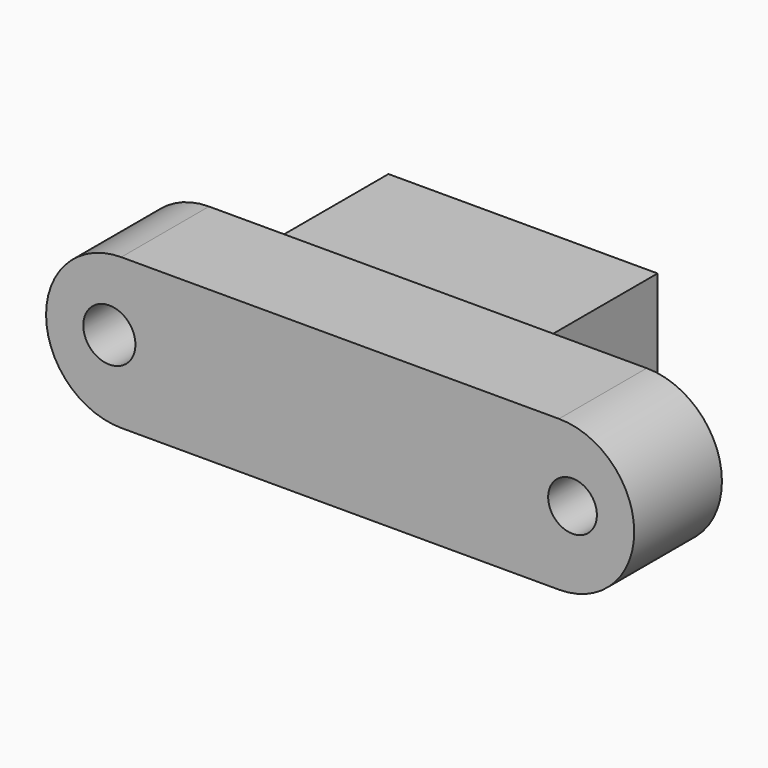
from build123d import *

# Parameters (mm, degrees)
F0_W     = 101.395164
F0_H     = 34.843063
F1_DEPTH = 25.4
F2_R     = 6.038851
F2_R_2   = 5.643182
F3_DEPTH = 46.99
F4_W     = 62.337181
F4_H     = 34.332353
F5_DEPTH = 30.48


with BuildPart() as f1:
    # F0 (on Front) → F1 (new body)
    with BuildSketch(Plane.XZ):
        with BuildLine():
            Line((-50.236695, -23.689596), (-50.236695, 11.153467))
            ThreePointArc((-50.236695, 11.153467), (-67.658226, -6.268064), (-50.236695, -23.689596))
        make_face()
        with Locations((0.460887, -6.268064)):
            Rectangle(F0_W, F0_H)
        with BuildLine():
            ThreePointArc((51.158469, -23.689596), (68.580001, -6.268064), (51.158469, 11.153467))
            Line((51.158469, 11.153467), (51.158469, -23.689596))
        make_face()
    extrude(amount=F1_DEPTH)

    # F2 (on Front) → F3 (cut)
    with BuildSketch(Plane.XZ):
        with Locations((-53.002015, -5.622823)):
            Circle(F2_R)
        with Locations((54.292504, -5.622823)):
            Circle(F2_R_2)
    extrude(amount=F3_DEPTH, mode=Mode.SUBTRACT)

    # F4 (on Front) → F5 (join)
    with BuildSketch(Plane.XZ):
        with Locations((-1.877168, -6.187636)):
            Rectangle(F4_W, F4_H)
    extrude(amount=-F5_DEPTH)


solid = f1.part
